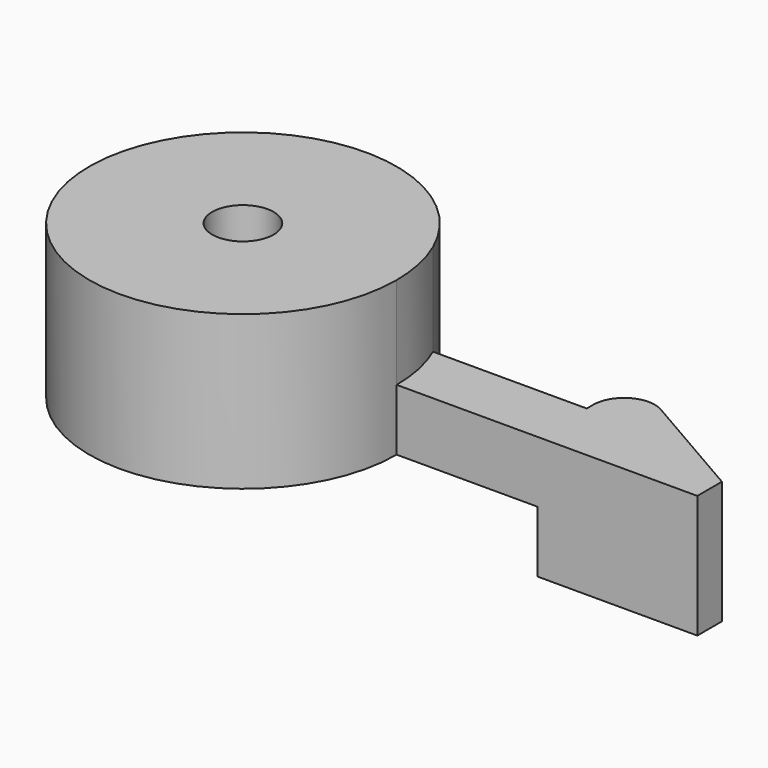
from build123d import *

# Parameters (mm, degrees)
F1_DEPTH = 5
F2_DEPTH = 2
F3_DEPTH = 2
F4_D     = 2
F5_R     = 1


with BuildPart() as f1:
    # F0 (on Top) → F1 (new body)
    with BuildSketch(Plane.XY):
        with BuildLine():
            ThreePointArc((4.582576, 2), (-4.894532, -1.021548), (5, 0))
            ThreePointArc((5, 0), (4.894532, 1.021548), (4.582576, 2))
        make_face()
    extrude(amount=F1_DEPTH)

    # F0 (on Top) → F2 (join)
    with BuildSketch(Plane.XY):
        with BuildLine():
            ThreePointArc((4.582576, 2), (4.894532, 1.021548), (5, 0))
            Line((5, 0), (9.582576, 0))
            Line((9.582576, 0), (9.582576, 2))
            Line((9.582576, 2), (4.582576, 2))
        make_face()
    extrude(amount=F2_DEPTH)

    # F0 (on Top) → F3 (join, symmetric)
    with BuildSketch(Plane.XY):
        Polygon((9.582576, 2), (9.582576, 0), (14.778728, 0), (14.778728, 1), (9.582576, 4), align=None)
    extrude(amount=F3_DEPTH, both=True)

    # F4 (through all)
    with Locations(Plane(origin=(0, 0, 0), x_dir=(1, 0, 0), z_dir=(0, 0, -1))):
        with Locations((0, 0)):
            Hole(F4_D / 2)

    # F5
    f5_edges = [f1.edges().sort_by_distance(p)[0] for p in [
        (9.582576, 4, 0),
    ]]
    fillet(f5_edges, radius=F5_R)


solid = f1.part
